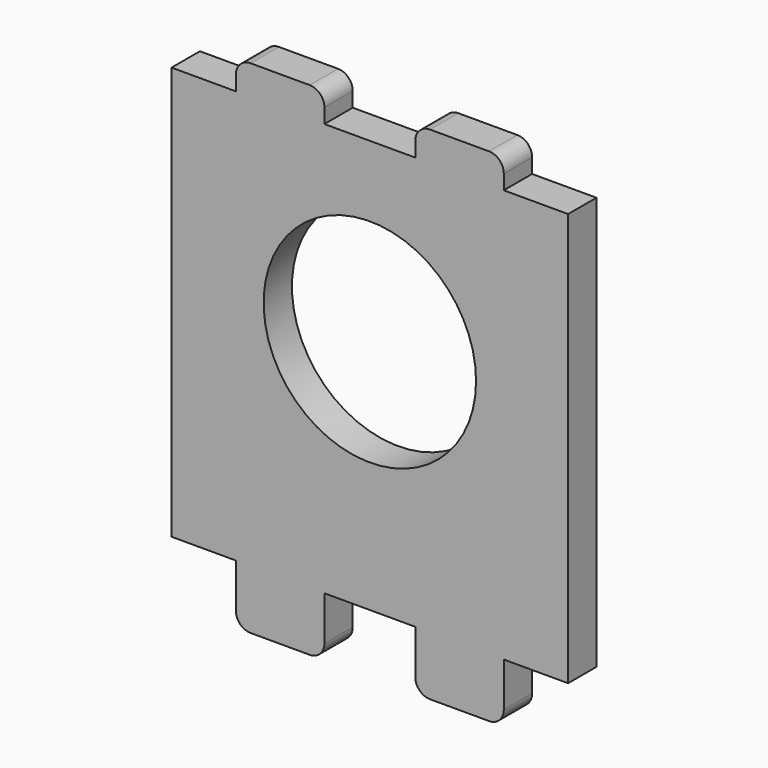
from build123d import *

# Parameters (mm, degrees)
F1_DEPTH = 3


with BuildPart() as f1:
    # F0 (on Front) → F1 (new body)
    with BuildSketch(Plane.XZ):
        with BuildLine():
            Line((-11.35, 17.5), (-16.8, 17.5))
            Line((-16.8, 17.5), (-16.8, 2.5))
            Line((-16.8, 2.5), (-9, 2.5))
            ThreePointArc((-9, 2.5), (0, 11.5), (9, 2.5))
            Line((9, 2.5), (16.8, 2.5))
            Line((16.8, 2.5), (16.8, 17.5))
            Line((16.8, 17.5), (11.35, 17.5))
            Line((11.35, 17.5), (11.35, 18.75))
            ThreePointArc((11.35, 18.75), (10.983883, 19.633883), (10.1, 20))
            Line((10.1, 20), (5.1, 20))
            ThreePointArc((5.1, 20), (4.216117, 19.633883), (3.85, 18.75))
            Line((3.85, 18.75), (3.85, 17.5))
            Line((3.85, 17.5), (-3.85, 17.5))
            Line((-3.85, 17.5), (-3.85, 18.75))
            ThreePointArc((-3.85, 18.75), (-4.216117, 19.633883), (-5.1, 20))
            Line((-5.1, 20), (-10.1, 20))
            ThreePointArc((-10.1, 20), (-10.983883, 19.633883), (-11.35, 18.75))
            Line((-11.35, 18.75), (-11.35, 17.5))
        make_face()
        with BuildLine():
            Line((-9, 2.5), (-16.8, 2.5))
            Line((-16.8, 2.5), (-16.8, -17.5))
            Line((-16.8, -17.5), (-11.35, -17.5))
            Line((-11.35, -17.5), (-11.35, -21.25))
            Line((-11.35, -21.25), (-3.85, -21.25))
            Line((-3.85, -21.25), (-3.85, -17.5))
            Line((-3.85, -17.5), (3.85, -17.5))
            Line((3.85, -17.5), (3.85, -21.25))
            Line((3.85, -21.25), (11.35, -21.25))
            Line((11.35, -21.25), (11.35, -17.5))
            Line((11.35, -17.5), (16.8, -17.5))
            Line((16.8, -17.5), (16.8, 2.5))
            Line((16.8, 2.5), (9, 2.5))
            ThreePointArc((9, 2.5), (0, -6.5), (-9, 2.5))
        make_face()
        with BuildLine():
            Line((-3.85, -21.25), (-11.35, -21.25))
            ThreePointArc((-11.35, -21.25), (-10.983883, -22.133883), (-10.1, -22.5))
            Line((-10.1, -22.5), (-5.1, -22.5))
            ThreePointArc((-5.1, -22.5), (-4.216117, -22.133883), (-3.85, -21.25))
        make_face()
        with BuildLine():
            ThreePointArc((10.1, -22.5), (10.983883, -22.133883), (11.35, -21.25))
            Line((11.35, -21.25), (3.85, -21.25))
            ThreePointArc((3.85, -21.25), (4.216117, -22.133883), (5.1, -22.5))
            Line((5.1, -22.5), (10.1, -22.5))
        make_face()
    extrude(amount=F1_DEPTH)


solid = f1.part
